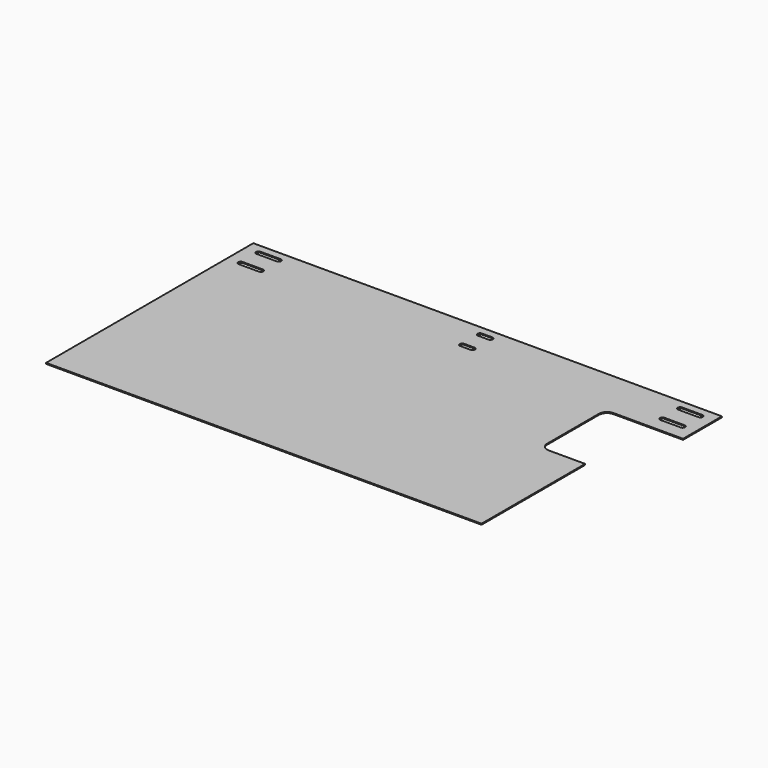
from build123d import *

# Parameters (mm, degrees)
F1_DEPTH = 2.5


with BuildPart() as f1:
    # F0 (on Top) → F1 (new body)
    with BuildSketch(Plane.XY):
        with BuildLine():
            Line((0, 640), (0, 0))
            Line((0, 0), (1076, 0))
            Line((1076, 0), (1076, 320))
            Line((1076, 320), (986, 320))
            ThreePointArc((986, 320), (971.857864, 325.857864), (966, 340))
            Line((966, 340), (966, 500))
            ThreePointArc((966, 500), (971.857864, 514.142136), (986, 520))
            Line((986, 520), (1158, 520))
            Line((1158, 520), (1158, 640))
            Line((1158, 640), (0, 640))
        make_face()
        with BuildLine():
            ThreePointArc((33, 554), (27, 560), (33, 566))
            Line((33, 566), (83, 566))
            ThreePointArc((83, 566), (89, 560), (83, 554))
            Line((83, 554), (33, 554))
        make_face(mode=Mode.SUBTRACT)
        with BuildLine():
            ThreePointArc((33, 609), (27, 615), (33, 621))
            Line((33, 621), (83, 621))
            ThreePointArc((83, 621), (89, 615), (83, 609))
            Line((83, 609), (33, 609))
        make_face(mode=Mode.SUBTRACT)
        with BuildLine():
            Line((605.7, 554), (580.3, 554))
            ThreePointArc((580.3, 554), (574.3, 560), (580.3, 566))
            Line((580.3, 566), (605.7, 566))
            ThreePointArc((605.7, 566), (611.7, 560), (605.7, 554))
        make_face(mode=Mode.SUBTRACT)
        with BuildLine():
            Line((605.7, 609), (580.3, 609))
            ThreePointArc((580.3, 609), (574.3, 615), (580.3, 621))
            Line((580.3, 621), (605.7, 621))
            ThreePointArc((605.7, 621), (611.7, 615), (605.7, 609))
        make_face(mode=Mode.SUBTRACT)
        with BuildLine():
            ThreePointArc((1075, 554), (1069, 560), (1075, 566))
            Line((1075, 566), (1125, 566))
            ThreePointArc((1125, 566), (1131, 560), (1125, 554))
            Line((1125, 554), (1075, 554))
        make_face(mode=Mode.SUBTRACT)
        with BuildLine():
            ThreePointArc((1075, 609), (1069, 615), (1075, 621))
            Line((1075, 621), (1125, 621))
            ThreePointArc((1125, 621), (1131, 615), (1125, 609))
            Line((1125, 609), (1075, 609))
        make_face(mode=Mode.SUBTRACT)
    extrude(amount=F1_DEPTH)


solid = f1.part
